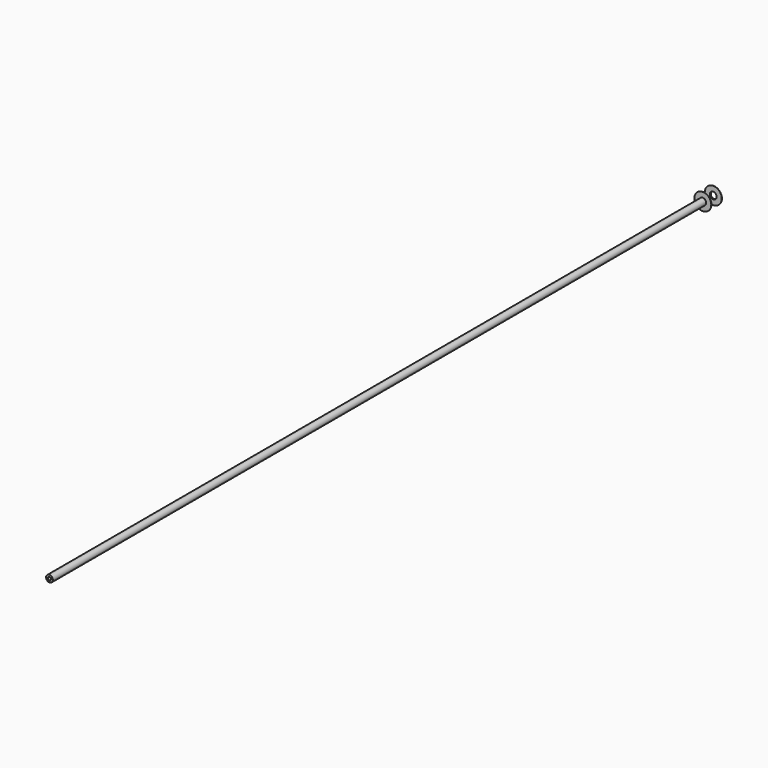
from build123d import *

# Parameters (mm, degrees)
F0_R     = 15.875
F0_R_2   = 6.35
F1_DEPTH = 0.4064
F2_R     = 6.35
F2_R_2   = 2.794
F3_DEPTH = 1524


with BuildPart() as f1:
    # F0 (on Front) → F1 (new body)
    with BuildSketch(Plane.XZ):
        Circle(F0_R)
        Circle(F0_R_2, mode=Mode.SUBTRACT)
    extrude(amount=F1_DEPTH)


with BuildPart() as f3:
    # F2 (on Front) → F3 (new body)
    with BuildSketch(Plane.XZ):
        Circle(F2_R)
        Circle(F2_R_2, mode=Mode.SUBTRACT)
    extrude(amount=F3_DEPTH)


with BuildPart() as f5:
    # F4 (on Right) → F5 (revolve)
    with BuildSketch(Plane.YZ):
        Polygon((24.060233, 6.35), (26.176899, 6.35), (26.176899, 6.7564), (24.466633, 6.7564), (24.466633, 15.875), (24.060233, 15.875), align=None)
    revolve(axis=Axis((0, 25.4, 0), (0, 1, 0)))


solid = Compound([f1.part, f3.part, f5.part])
